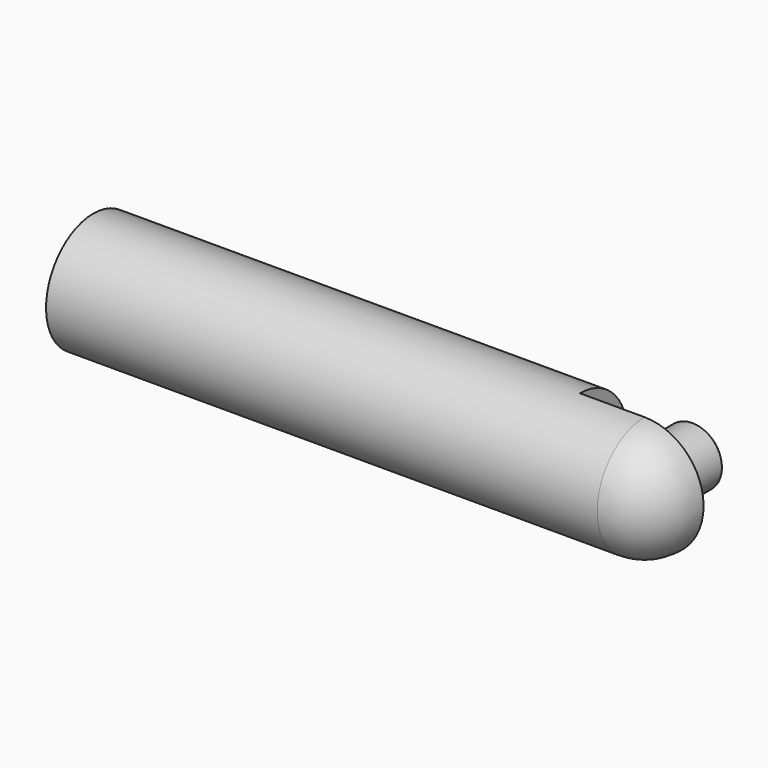
from build123d import *

# Parameters (mm, degrees)
F0_W     = 156.972
F0_H     = 19.0483668515
F1_W     = 20.828
F1_H     = 19.0483668515
F3_ANGLE = 180
F4_ANGLE = 90
F5_R     = 9.525
F6_DEPTH = 20.828
F7_SIZE2 = 1.524
F7_SIZE  = 1.524


with BuildPart() as f2:
    # F0 (on Front) → F2 (revolve)
    with BuildSketch(Plane.XZ):
        with Locations((0, 9.5241834258)):
            Rectangle(F0_W, F0_H)
    revolve(axis=Axis((0, 0, 0), (-1, 0, 0)))

    # F1 (on Front) → F3 (revolve)
    with BuildSketch(Plane.XZ):
        with Locations((88.9, 9.5241834258)):
            Rectangle(F1_W, F1_H)
    revolve(axis=Axis((88.9, 0, 0), (1, 0, 0)), revolution_arc=F3_ANGLE)

    # F3_face (on face) → F4 (revolve)
    with BuildSketch(Plane(origin=(99.314, -8.0843779793, 0), x_dir=(0, 1, 0), z_dir=(1, 0, 0))):
        with BuildLine():
            ThreePointArc((8.0843779793, 19.0483668515), (-10.9639888722, 0), (8.0843779793, -19.0483668515))
            Line((8.0843779793, -19.0483668515), (8.0843779793, 19.0483668515))
        make_face()
    revolve(axis=Axis((99.314, 0, 0), (0, 0, 1)), revolution_arc=F4_ANGLE)

    # F5 (on Front) → F6 (join)
    with BuildSketch(Plane.XZ):
        with Locations((99.314, 0)):
            Circle(F5_R)
    extrude(amount=-F6_DEPTH)

    # F7
    f7_edges = [f2.edges().sort_by_distance(p)[0] for p in [
        (89.789, 20.828, 0),
    ]]
    chamfer(f7_edges, length=F7_SIZE, length2=F7_SIZE2)


solid = f2.part
